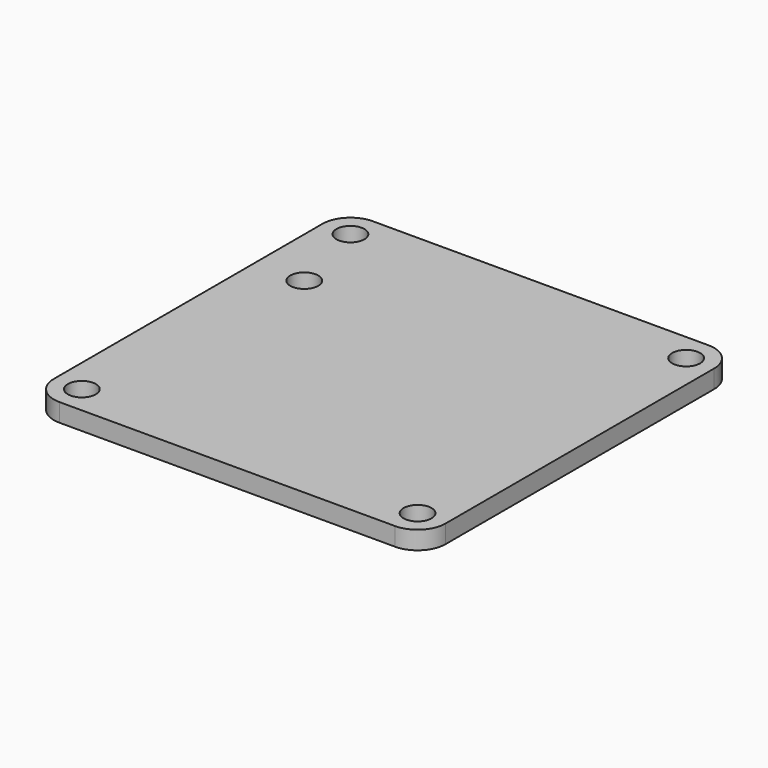
from build123d import *

# Parameters (mm, degrees)
F0_W     = 35.56
F0_H     = 35.56
F0_R     = 1.27
F1_DEPTH = 1.651
F2_R     = 2.54


with BuildPart() as f1:
    # F0 (on Top) → F1 (new body)
    with BuildSketch(Plane.XY):
        Rectangle(F0_W, F0_H)
        with Locations((-15.24, -15.24)):
            Circle(F0_R, mode=Mode.SUBTRACT)
        with Locations((15.24, -15.24)):
            Circle(F0_R, mode=Mode.SUBTRACT)
        with Locations((-13.335, 7.62)):
            Circle(F0_R, mode=Mode.SUBTRACT)
        with Locations((-15.24, 15.24)):
            Circle(F0_R, mode=Mode.SUBTRACT)
        with Locations((15.24, 15.24)):
            Circle(F0_R, mode=Mode.SUBTRACT)
    extrude(amount=F1_DEPTH)

    # F2
    f2_edges = [f1.edges().sort_by_distance(p)[0] for p in [
        (-17.78, 17.78, 0.8255),
        (-17.78, -17.78, 0.8255),
        (17.78, -17.78, 0.8255),
        (17.78, 17.78, 0.8255),
    ]]
    fillet(f2_edges, radius=F2_R)


solid = f1.part
